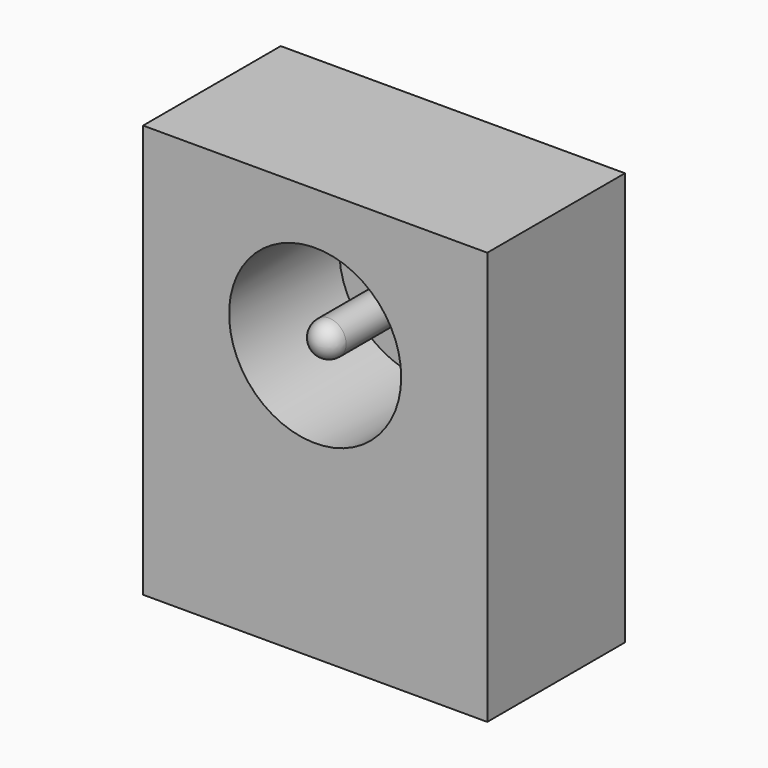
from build123d import *

# Parameters (mm, degrees)
F0_W     = 10
F0_H     = 12
F1_DEPTH = 2.5
F2_R     = 2.5
F2_R_2   = 0.5
F3_DEPTH = 4
F4_R     = 0.5


with BuildPart() as f1:
    # F0 (on Front) → F1 (new body, symmetric)
    with BuildSketch(Plane.XZ):
        Rectangle(F0_W, F0_H)
    extrude(amount=F1_DEPTH, both=True)

    # F2 (on face) → F3 (cut)
    with BuildSketch(Plane.XZ.offset(2.5)):
        with Locations((0, 2)):
            Circle(F2_R)
        with Locations((0, 2)):
            Circle(F2_R_2, mode=Mode.SUBTRACT)
    extrude(amount=-F3_DEPTH, mode=Mode.SUBTRACT)

    # F4
    f4_edges = [f1.edges().sort_by_distance(p)[0] for p in [
        (-0.5, -2.5, 2),
    ]]
    fillet(f4_edges, radius=F4_R)


solid = f1.part
